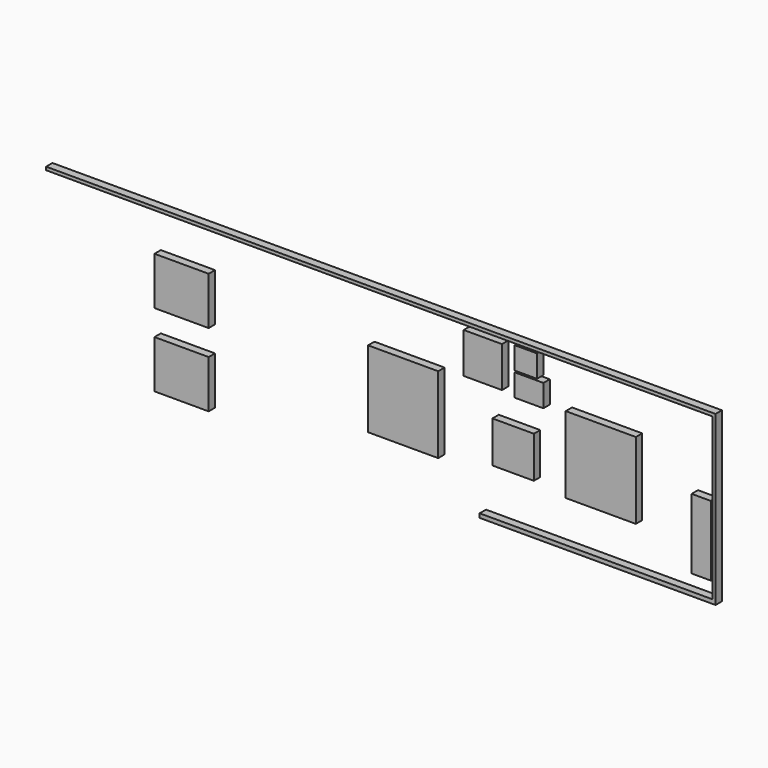
from build123d import *

# Parameters (mm, degrees)
F0_W     = 220
F0_H     = 240
F0_W_2   = 10
F0_H_2   = 505
F0_H_3   = 10
F0_W_3   = 2090
F0_H_4   = 12.703896
F0_W_4   = 730
F0_W_5   = 130
F0_H_5   = 130
F0_W_6   = 120
F0_H_6   = 127
F0_W_7   = 90
F0_H_7   = 70
F0_W_8   = 70
F0_W_9   = 60
F0_H_8   = 220
F0_W_10  = 170
F0_H_9   = 150
F1_DEPTH = 25


with BuildPart() as f1:
    # F0 (on Front) → F1 (new body)
    with BuildSketch(Plane.XZ):
        with Locations((110, 0)):
            Rectangle(F0_W, F0_H)
        with Locations((465, 2.5)):
            Rectangle(F0_W_2, F0_H_2)
        with Locations((465, 260)):
            Rectangle(F0_W_2, F0_H_3)
        with Locations((-585, 260)):
            Rectangle(F0_W_3, F0_H_3)
        with Locations((465, -256.351948)):
            Rectangle(F0_W_2, F0_H_4)
        with Locations((95, -256.351948)):
            Rectangle(F0_W_4, F0_H_4)
        with Locations((-165, -40)):
            Rectangle(F0_W_5, F0_H_5)
        with Locations((-260, 176.5)):
            Rectangle(F0_W_6, F0_H_6)
        with Locations((-115, 140)):
            Rectangle(F0_W_7, F0_H_7)
        with Locations((-125, 215)):
            Rectangle(F0_W_8, F0_H_7)
        with Locations((425, -90)):
            Rectangle(F0_W_9, F0_H_8)
        with Locations((-510, -20)):
            Rectangle(F0_W, F0_H)
        with Locations((-1205, 60)):
            Rectangle(F0_W_10, F0_H_9)
        with Locations((-1205, -170)):
            Rectangle(F0_W_10, F0_H_9)
    extrude(amount=F1_DEPTH)


solid = f1.part
